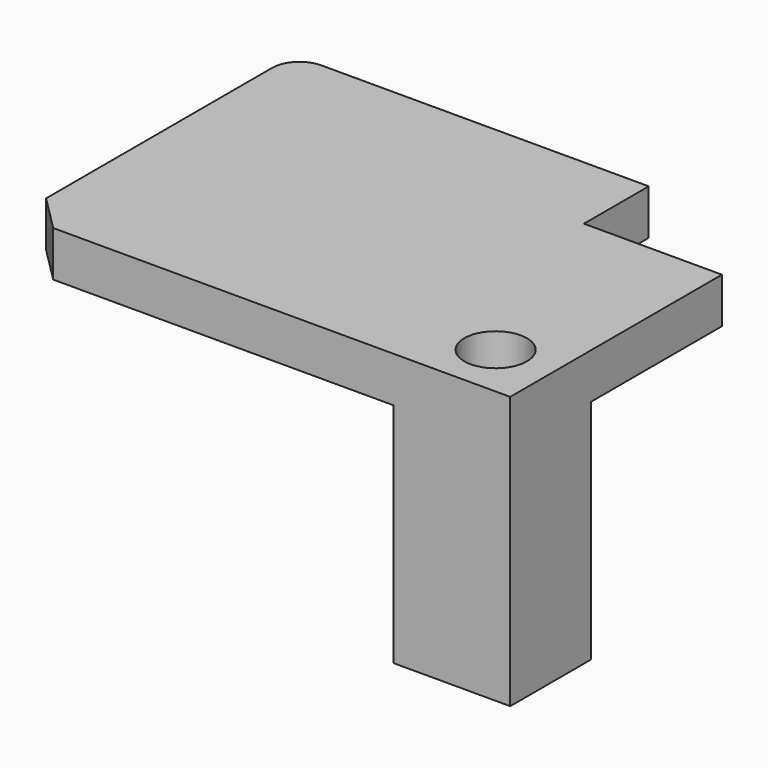
from build123d import *

# Parameters (mm, degrees)
F1_DEPTH = 12.7
F2_W     = 32.6402336359
F2_H     = 28.2041579485
F3_DEPTH = 76.2
F4_W     = 22.6674545556
F4_H     = 12.7
F5_DEPTH = 38.608
F6_R     = 8.7685690735
F7_DEPTH = 76.2
F8_R     = 7.62
F9_SIZE  = 10


with BuildPart() as f1:
    # F0 (on Top) → F1 (new body)
    with BuildSketch(Plane.XY):
        Polygon((94.5960357785, 36.9925387204), (-43.2745479047, 36.9925387204), (-43.2745479047, -59.7194693983), (58.4955252707, -59.7194693983), (69.8579475284, -59.7194693983), (94.5960357785, -59.7194693983), (94.5960357785, -27.4753328413), (94.5960357785, -27.073610574), align=None)
    extrude(amount=F1_DEPTH)

    # F2 (on face) → F3 (join)
    with BuildSketch(Plane.XY.offset(12.7)):
        with Locations((78.2759189606, -45.617390424)):
            Rectangle(F2_W, F2_H)
    extrude(amount=-F3_DEPTH)

    # F4 (on face) → F5 (cut)
    with BuildSketch(Plane.YZ.offset(94.5960357785)):
        with Locations((25.6588114426, 6.35)):
            Rectangle(F4_W, F4_H)
    extrude(amount=-F5_DEPTH, mode=Mode.SUBTRACT)

    # F6 (on face) → F7 (cut)
    with BuildSketch(Plane(origin=(0, 0, -63.5), x_dir=(1, 0, 0), z_dir=(0, 0, -1))):
        with Locations((78.1861692667, 44.3040877581)):
            Circle(F6_R)
    extrude(amount=-F7_DEPTH, mode=Mode.SUBTRACT)

    # F8
    f8_edges = [f1.edges().sort_by_distance(p)[0] for p in [
        (-43.274548, 36.992539, 6.35),
    ]]
    fillet(f8_edges, radius=F8_R)

    # F9
    f9_edges = [f1.edges().sort_by_distance(p)[0] for p in [
        (-43.274548, -59.719469, 6.35),
    ]]
    chamfer(f9_edges, length=F9_SIZE)


solid = f1.part
